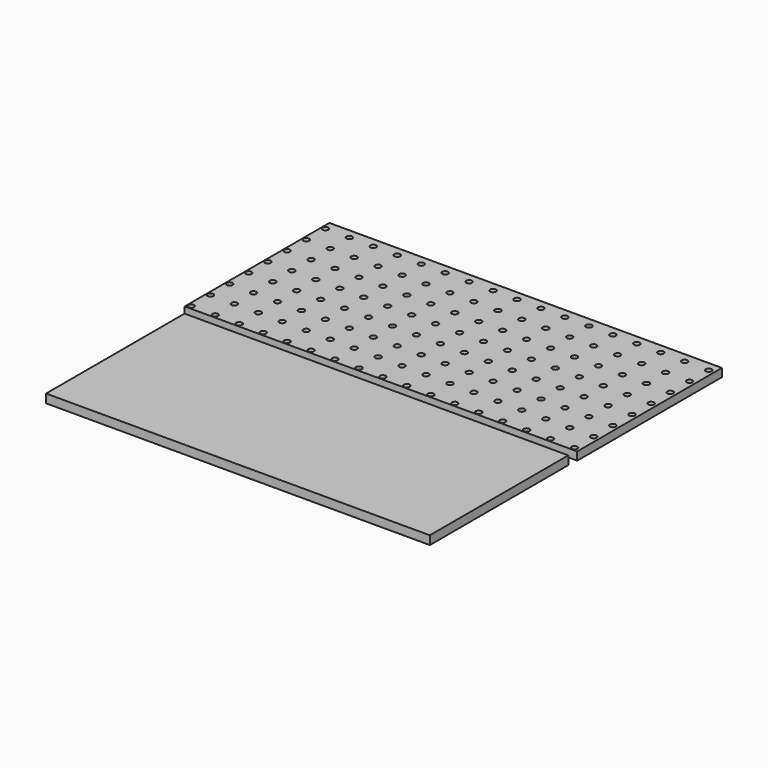
from build123d import *

# Parameters (mm, degrees)
F0_W     = 803
F0_H     = 370
F0_R     = 6
F1_DEPTH = 16.7
F2_W     = 785
F2_H     = 354
F3_DEPTH = 17.7


with BuildPart() as f1:
    # F0 (on Top) → F1 (new body)
    with BuildSketch(Plane.XY):
        Rectangle(F0_W, F0_H)
        with Locations((-394, -177.5)):
            Circle(F0_R, mode=Mode.SUBTRACT)
        with Locations((-345, -177.5)):
            Circle(F0_R, mode=Mode.SUBTRACT)
        with Locations((-296, -177.5)):
            Circle(F0_R, mode=Mode.SUBTRACT)
        with Locations((-247, -177.5)):
            Circle(F0_R, mode=Mode.SUBTRACT)
        with Locations((-394, -128.5)):
            Circle(F0_R, mode=Mode.SUBTRACT)
        with Locations((-345, -128.5)):
            Circle(F0_R, mode=Mode.SUBTRACT)
        with Locations((-296, -128.5)):
            Circle(F0_R, mode=Mode.SUBTRACT)
        with Locations((-247, -128.5)):
            Circle(F0_R, mode=Mode.SUBTRACT)
        with Locations((-198, -177.5)):
            Circle(F0_R, mode=Mode.SUBTRACT)
        with Locations((-149, -177.5)):
            Circle(F0_R, mode=Mode.SUBTRACT)
        with Locations((-100, -177.5)):
            Circle(F0_R, mode=Mode.SUBTRACT)
        with Locations((-51, -177.5)):
            Circle(F0_R, mode=Mode.SUBTRACT)
        with Locations((-2, -177.5)):
            Circle(F0_R, mode=Mode.SUBTRACT)
        with Locations((-198, -128.5)):
            Circle(F0_R, mode=Mode.SUBTRACT)
        with Locations((-149, -128.5)):
            Circle(F0_R, mode=Mode.SUBTRACT)
        with Locations((-100, -128.5)):
            Circle(F0_R, mode=Mode.SUBTRACT)
        with Locations((-51, -128.5)):
            Circle(F0_R, mode=Mode.SUBTRACT)
        with Locations((-2, -128.5)):
            Circle(F0_R, mode=Mode.SUBTRACT)
        with Locations((-394, -79.5)):
            Circle(F0_R, mode=Mode.SUBTRACT)
        with Locations((-345, -79.5)):
            Circle(F0_R, mode=Mode.SUBTRACT)
        with Locations((-296, -79.5)):
            Circle(F0_R, mode=Mode.SUBTRACT)
        with Locations((-247, -79.5)):
            Circle(F0_R, mode=Mode.SUBTRACT)
        with Locations((-394, -30.5)):
            Circle(F0_R, mode=Mode.SUBTRACT)
        with Locations((-345, -30.5)):
            Circle(F0_R, mode=Mode.SUBTRACT)
        with Locations((-296, -30.5)):
            Circle(F0_R, mode=Mode.SUBTRACT)
        with Locations((-247, -30.5)):
            Circle(F0_R, mode=Mode.SUBTRACT)
        with Locations((-198, -79.5)):
            Circle(F0_R, mode=Mode.SUBTRACT)
        with Locations((-149, -79.5)):
            Circle(F0_R, mode=Mode.SUBTRACT)
        with Locations((-100, -79.5)):
            Circle(F0_R, mode=Mode.SUBTRACT)
        with Locations((-51, -79.5)):
            Circle(F0_R, mode=Mode.SUBTRACT)
        with Locations((-2, -79.5)):
            Circle(F0_R, mode=Mode.SUBTRACT)
        with Locations((-198, -30.5)):
            Circle(F0_R, mode=Mode.SUBTRACT)
        with Locations((-149, -30.5)):
            Circle(F0_R, mode=Mode.SUBTRACT)
        with Locations((-100, -30.5)):
            Circle(F0_R, mode=Mode.SUBTRACT)
        with Locations((-51, -30.5)):
            Circle(F0_R, mode=Mode.SUBTRACT)
        with Locations((-2, -30.5)):
            Circle(F0_R, mode=Mode.SUBTRACT)
        with Locations((47, -177.5)):
            Circle(F0_R, mode=Mode.SUBTRACT)
        with Locations((96, -177.5)):
            Circle(F0_R, mode=Mode.SUBTRACT)
        with Locations((145, -177.5)):
            Circle(F0_R, mode=Mode.SUBTRACT)
        with Locations((194, -177.5)):
            Circle(F0_R, mode=Mode.SUBTRACT)
        with Locations((47, -128.5)):
            Circle(F0_R, mode=Mode.SUBTRACT)
        with Locations((96, -128.5)):
            Circle(F0_R, mode=Mode.SUBTRACT)
        with Locations((145, -128.5)):
            Circle(F0_R, mode=Mode.SUBTRACT)
        with Locations((194, -128.5)):
            Circle(F0_R, mode=Mode.SUBTRACT)
        with Locations((243, -177.5)):
            Circle(F0_R, mode=Mode.SUBTRACT)
        with Locations((292, -177.5)):
            Circle(F0_R, mode=Mode.SUBTRACT)
        with Locations((341, -177.5)):
            Circle(F0_R, mode=Mode.SUBTRACT)
        with Locations((390, -177.5)):
            Circle(F0_R, mode=Mode.SUBTRACT)
        with Locations((243, -128.5)):
            Circle(F0_R, mode=Mode.SUBTRACT)
        with Locations((292, -128.5)):
            Circle(F0_R, mode=Mode.SUBTRACT)
        with Locations((341, -128.5)):
            Circle(F0_R, mode=Mode.SUBTRACT)
        with Locations((390, -128.5)):
            Circle(F0_R, mode=Mode.SUBTRACT)
        with Locations((47, -79.5)):
            Circle(F0_R, mode=Mode.SUBTRACT)
        with Locations((96, -79.5)):
            Circle(F0_R, mode=Mode.SUBTRACT)
        with Locations((145, -79.5)):
            Circle(F0_R, mode=Mode.SUBTRACT)
        with Locations((194, -79.5)):
            Circle(F0_R, mode=Mode.SUBTRACT)
        with Locations((47, -30.5)):
            Circle(F0_R, mode=Mode.SUBTRACT)
        with Locations((96, -30.5)):
            Circle(F0_R, mode=Mode.SUBTRACT)
        with Locations((145, -30.5)):
            Circle(F0_R, mode=Mode.SUBTRACT)
        with Locations((194, -30.5)):
            Circle(F0_R, mode=Mode.SUBTRACT)
        with Locations((243, -79.5)):
            Circle(F0_R, mode=Mode.SUBTRACT)
        with Locations((292, -79.5)):
            Circle(F0_R, mode=Mode.SUBTRACT)
        with Locations((341, -79.5)):
            Circle(F0_R, mode=Mode.SUBTRACT)
        with Locations((390, -79.5)):
            Circle(F0_R, mode=Mode.SUBTRACT)
        with Locations((243, -30.5)):
            Circle(F0_R, mode=Mode.SUBTRACT)
        with Locations((292, -30.5)):
            Circle(F0_R, mode=Mode.SUBTRACT)
        with Locations((341, -30.5)):
            Circle(F0_R, mode=Mode.SUBTRACT)
        with Locations((390, -30.5)):
            Circle(F0_R, mode=Mode.SUBTRACT)
        with Locations((-394, 18.5)):
            Circle(F0_R, mode=Mode.SUBTRACT)
        with Locations((-345, 18.5)):
            Circle(F0_R, mode=Mode.SUBTRACT)
        with Locations((-296, 18.5)):
            Circle(F0_R, mode=Mode.SUBTRACT)
        with Locations((-247, 18.5)):
            Circle(F0_R, mode=Mode.SUBTRACT)
        with Locations((-394, 67.5)):
            Circle(F0_R, mode=Mode.SUBTRACT)
        with Locations((-345, 67.5)):
            Circle(F0_R, mode=Mode.SUBTRACT)
        with Locations((-296, 67.5)):
            Circle(F0_R, mode=Mode.SUBTRACT)
        with Locations((-247, 67.5)):
            Circle(F0_R, mode=Mode.SUBTRACT)
        with Locations((-198, 18.5)):
            Circle(F0_R, mode=Mode.SUBTRACT)
        with Locations((-149, 18.5)):
            Circle(F0_R, mode=Mode.SUBTRACT)
        with Locations((-100, 18.5)):
            Circle(F0_R, mode=Mode.SUBTRACT)
        with Locations((-51, 18.5)):
            Circle(F0_R, mode=Mode.SUBTRACT)
        with Locations((-2, 18.5)):
            Circle(F0_R, mode=Mode.SUBTRACT)
        with Locations((-198, 67.5)):
            Circle(F0_R, mode=Mode.SUBTRACT)
        with Locations((-149, 67.5)):
            Circle(F0_R, mode=Mode.SUBTRACT)
        with Locations((-100, 67.5)):
            Circle(F0_R, mode=Mode.SUBTRACT)
        with Locations((-51, 67.5)):
            Circle(F0_R, mode=Mode.SUBTRACT)
        with Locations((-2, 67.5)):
            Circle(F0_R, mode=Mode.SUBTRACT)
        with Locations((-394, 116.5)):
            Circle(F0_R, mode=Mode.SUBTRACT)
        with Locations((-345, 116.5)):
            Circle(F0_R, mode=Mode.SUBTRACT)
        with Locations((-296, 116.5)):
            Circle(F0_R, mode=Mode.SUBTRACT)
        with Locations((-247, 116.5)):
            Circle(F0_R, mode=Mode.SUBTRACT)
        with Locations((-394, 165.5)):
            Circle(F0_R, mode=Mode.SUBTRACT)
        with Locations((-345, 165.5)):
            Circle(F0_R, mode=Mode.SUBTRACT)
        with Locations((-296, 165.5)):
            Circle(F0_R, mode=Mode.SUBTRACT)
        with Locations((-247, 165.5)):
            Circle(F0_R, mode=Mode.SUBTRACT)
        with Locations((-198, 116.5)):
            Circle(F0_R, mode=Mode.SUBTRACT)
        with Locations((-149, 116.5)):
            Circle(F0_R, mode=Mode.SUBTRACT)
        with Locations((-100, 116.5)):
            Circle(F0_R, mode=Mode.SUBTRACT)
        with Locations((-51, 116.5)):
            Circle(F0_R, mode=Mode.SUBTRACT)
        with Locations((-2, 116.5)):
            Circle(F0_R, mode=Mode.SUBTRACT)
        with Locations((-198, 165.5)):
            Circle(F0_R, mode=Mode.SUBTRACT)
        with Locations((-149, 165.5)):
            Circle(F0_R, mode=Mode.SUBTRACT)
        with Locations((-100, 165.5)):
            Circle(F0_R, mode=Mode.SUBTRACT)
        with Locations((-51, 165.5)):
            Circle(F0_R, mode=Mode.SUBTRACT)
        with Locations((-2, 165.5)):
            Circle(F0_R, mode=Mode.SUBTRACT)
        with Locations((47, 18.5)):
            Circle(F0_R, mode=Mode.SUBTRACT)
        with Locations((96, 18.5)):
            Circle(F0_R, mode=Mode.SUBTRACT)
        with Locations((145, 18.5)):
            Circle(F0_R, mode=Mode.SUBTRACT)
        with Locations((194, 18.5)):
            Circle(F0_R, mode=Mode.SUBTRACT)
        with Locations((47, 67.5)):
            Circle(F0_R, mode=Mode.SUBTRACT)
        with Locations((96, 67.5)):
            Circle(F0_R, mode=Mode.SUBTRACT)
        with Locations((145, 67.5)):
            Circle(F0_R, mode=Mode.SUBTRACT)
        with Locations((194, 67.5)):
            Circle(F0_R, mode=Mode.SUBTRACT)
        with Locations((243, 18.5)):
            Circle(F0_R, mode=Mode.SUBTRACT)
        with Locations((292, 18.5)):
            Circle(F0_R, mode=Mode.SUBTRACT)
        with Locations((341, 18.5)):
            Circle(F0_R, mode=Mode.SUBTRACT)
        with Locations((390, 18.5)):
            Circle(F0_R, mode=Mode.SUBTRACT)
        with Locations((243, 67.5)):
            Circle(F0_R, mode=Mode.SUBTRACT)
        with Locations((292, 67.5)):
            Circle(F0_R, mode=Mode.SUBTRACT)
        with Locations((341, 67.5)):
            Circle(F0_R, mode=Mode.SUBTRACT)
        with Locations((390, 67.5)):
            Circle(F0_R, mode=Mode.SUBTRACT)
        with Locations((47, 116.5)):
            Circle(F0_R, mode=Mode.SUBTRACT)
        with Locations((96, 116.5)):
            Circle(F0_R, mode=Mode.SUBTRACT)
        with Locations((145, 116.5)):
            Circle(F0_R, mode=Mode.SUBTRACT)
        with Locations((194, 116.5)):
            Circle(F0_R, mode=Mode.SUBTRACT)
        with Locations((47, 165.5)):
            Circle(F0_R, mode=Mode.SUBTRACT)
        with Locations((96, 165.5)):
            Circle(F0_R, mode=Mode.SUBTRACT)
        with Locations((145, 165.5)):
            Circle(F0_R, mode=Mode.SUBTRACT)
        with Locations((194, 165.5)):
            Circle(F0_R, mode=Mode.SUBTRACT)
        with Locations((243, 116.5)):
            Circle(F0_R, mode=Mode.SUBTRACT)
        with Locations((292, 116.5)):
            Circle(F0_R, mode=Mode.SUBTRACT)
        with Locations((341, 116.5)):
            Circle(F0_R, mode=Mode.SUBTRACT)
        with Locations((390, 116.5)):
            Circle(F0_R, mode=Mode.SUBTRACT)
        with Locations((243, 165.5)):
            Circle(F0_R, mode=Mode.SUBTRACT)
        with Locations((292, 165.5)):
            Circle(F0_R, mode=Mode.SUBTRACT)
        with Locations((341, 165.5)):
            Circle(F0_R, mode=Mode.SUBTRACT)
        with Locations((390, 165.5)):
            Circle(F0_R, mode=Mode.SUBTRACT)
    extrude(amount=F1_DEPTH)


with BuildPart() as f3:
    # F2 (on Top) → F3 (new body)
    with BuildSketch(Plane.XY):
        with Locations((7.53166, -383.044825)):
            Rectangle(F2_W, F2_H)
    extrude(amount=F3_DEPTH)


solid = Compound([f1.part, f3.part])
